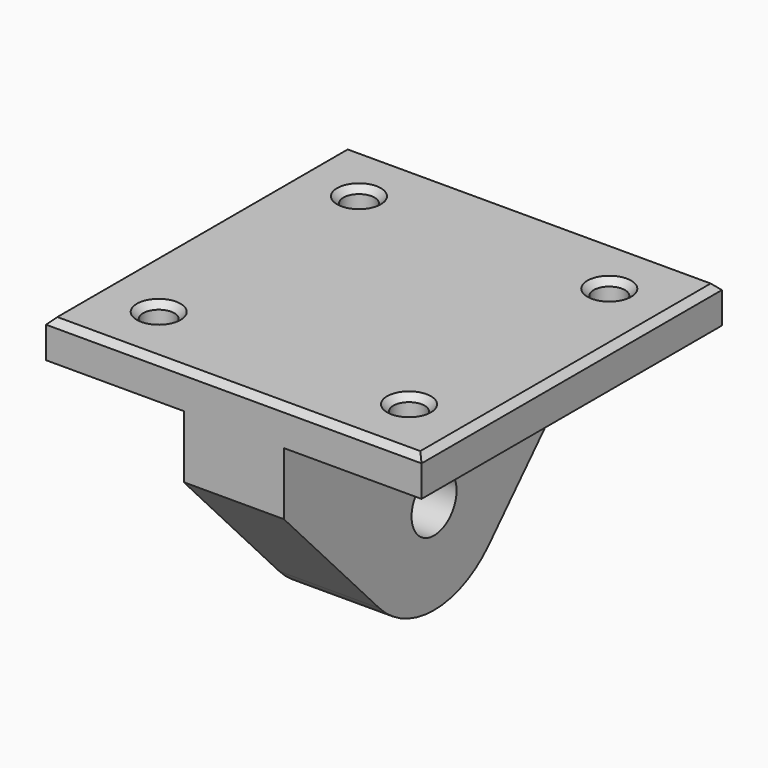
from build123d import *

# Parameters (mm, degrees)
F0_R     = 4.5
F1_DEPTH = 8
F2_W     = 22
F2_H     = 60
F2_R     = 2.5
F3_DEPTH = 6
F4_SIZE  = 1


with BuildPart() as f1:
    # F0 (on Right) → F1 (new body, symmetric)
    with BuildSketch(Plane.YZ):
        with BuildLine():
            Line((-30, 10), (-10.925823, -10.27747))
            ThreePointArc((-10.925823, -10.27747), (0, -15), (10.925823, -10.27747))
            Line((10.925823, -10.27747), (30, 10))
            Line((30, 10), (30, 20))
            Line((30, 20), (0, 20))
            Line((0, 20), (-30, 20))
            Line((-30, 20), (-30, 10))
        make_face()
        Circle(F0_R, mode=Mode.SUBTRACT)
    extrude(amount=F1_DEPTH, both=True)

    # F2 (on face) → F3 (join)
    with BuildSketch(Plane.XY.offset(20)):
        Polygon((8, 30), (0, 30), (-8, 30), (-8, -30), (8, -30), align=None)
        with Locations((19, 0)):
            Rectangle(F2_W, F2_H)
        with Locations((20, -20)):
            Circle(F2_R, mode=Mode.SUBTRACT)
        with Locations((20, 20)):
            Circle(F2_R, mode=Mode.SUBTRACT)
        with Locations((-19, 0)):
            Rectangle(F2_W, F2_H)
        with Locations((-20, -20)):
            Circle(F2_R, mode=Mode.SUBTRACT)
        with Locations((-20, 20)):
            Circle(F2_R, mode=Mode.SUBTRACT)
    extrude(amount=F3_DEPTH)

    # F4
    f4_edges = [f1.edges().sort_by_distance(p)[0] for p in [
        (0, 30, 26),
        (-30, 0, 26),
        (0, -30, 26),
        (30, 0, 26),
        (17.5, 20, 26),
        (17.5, -20, 26),
        (-22.5, 20, 26),
        (-22.5, -20, 26),
    ]]
    chamfer(f4_edges, length=F4_SIZE)


solid = f1.part
